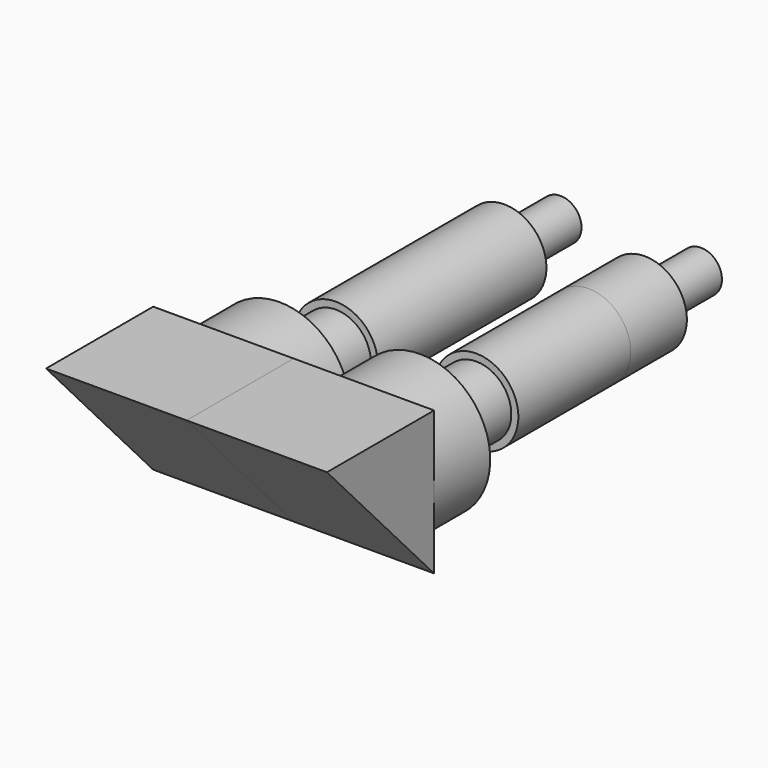
from build123d import *

# Parameters (mm, degrees)
F0_R        = 5
F1_DEPTH    = 5
F2_R        = 2.5
F3_DEPTH    = 15
F4_R        = 3
F4_R_2      = 2.5
F5_DEPTH    = 10
F5_FACE_R   = 3
F5_FACE_R_2 = 2.5
F6_DEPTH    = 5
F7_R        = 1.5
F8_DEPTH    = 10
F9_R        = 1
F10_DEPTH   = 10
F11_W       = 10
F11_H       = 10
F12_DEPTH   = 0.1
F13_DEPTH   = 0.1
F16_DEPTH   = 10
F17_DEPTH   = 10


with BuildPart() as f1:
    # F0 (on Front) → F1 (new body)
    with BuildSketch(Plane.XZ):
        with BuildLine():
            ThreePointArc((0, 0), (5, -5), (10, 0))
            ThreePointArc((10, 0), (5, 5), (0, 0))
        make_face()
        with Locations((-5, 0)):
            Circle(F0_R)
    extrude(amount=-F1_DEPTH)

    # F2 (on face) → F3 (join)
    with BuildSketch(Plane(origin=(0, 5, 0), x_dir=(-1, 0, 0), z_dir=(0, 1, 0))):
        with Locations((-5, 0)):
            Circle(F2_R)
        with Locations((5, 0)):
            Circle(F2_R)
    extrude(amount=F3_DEPTH)



with BuildPart() as f5:
    # F4 (on face) → F5 (new body)
    with BuildSketch(Plane(origin=(0, 20, 0), x_dir=(-1, 0, 0), z_dir=(0, 1, 0))):
        with Locations((-5, 0)):
            Circle(F4_R)
        with Locations((-5, 0)):
            Circle(F4_R_2, mode=Mode.SUBTRACT)
        with Locations((5, 0)):
            Circle(F4_R)
        with Locations((5, 0)):
            Circle(F4_R_2, mode=Mode.SUBTRACT)
    extrude(amount=-F5_DEPTH)


with BuildPart() as f1_1:
    add(f1.part)

    add(f5.part)  # F6 merges F5
    # F5_face (on face) → F6 (join)
    with BuildSketch(Plane(origin=(5, 20, 0), x_dir=(-1, 0, 0), z_dir=(0, 1, 0))):
        Circle(F5_FACE_R)
        Circle(F5_FACE_R_2, mode=Mode.SUBTRACT)
        with Locations((10, 0)):
            Circle(F5_FACE_R)
        with Locations((10, 0)):
            Circle(F5_FACE_R_2, mode=Mode.SUBTRACT)
    extrude(amount=F6_DEPTH)

    # F7 (on face) → F8 (join)
    with BuildSketch(Plane(origin=(0, 20, 0), x_dir=(-1, 0, 0), z_dir=(0, 1, 0))):
        with Locations((-5, 0)):
            Circle(F7_R)
        with Locations((5, 0)):
            Circle(F7_R)
    extrude(amount=F8_DEPTH)

    # F9 (on face) → F10 (join)
    with BuildSketch(Plane(origin=(0, 30, 0), x_dir=(-1, 0, 0), z_dir=(0, 1, 0))):
        with Locations((-5, 0)):
            Circle(F9_R)
        with Locations((5, 0)):
            Circle(F9_R)
    extrude(amount=-F10_DEPTH)


with BuildPart() as f12:
    # F11 (on Front) → F12 (new body)
    with BuildSketch(Plane.XZ):
        with Locations((5, 0)):
            Rectangle(F11_W, F11_H)
        with Locations((-5, 0)):
            Rectangle(F11_W, F11_H)
    extrude(amount=F12_DEPTH)


with BuildPart() as f13:
    # F11 (on Front) → F13 (new body)
    with BuildSketch(Plane.XZ):
        with Locations((5, 0)):
            Rectangle(F11_W, F11_H)
        with Locations((-5, 0)):
            Rectangle(F11_W, F11_H)
    extrude(amount=F13_DEPTH)


with BuildPart() as f16:
    # F15 (on Right) → F16 (new body)
    with BuildSketch(Plane.YZ):
        Polygon((0, -5.100443), (0, 5.119788), (-9.536071, 5.119788), align=None)
    extrude(amount=F16_DEPTH)


with BuildPart() as f17:
    # F16_face (on face) → F17 (new body)
    with BuildSketch(Plane(origin=(0, -3.17869, 1.713044), x_dir=(0, 1, 0), z_dir=(-1, 0, 0))):
        Polygon((3.17869, -3.406744), (3.17869, 6.813487), (-6.35738, -3.406744), align=None)
    extrude(amount=F17_DEPTH)


solid = Compound([f1_1.part, f16.part, f17.part])
